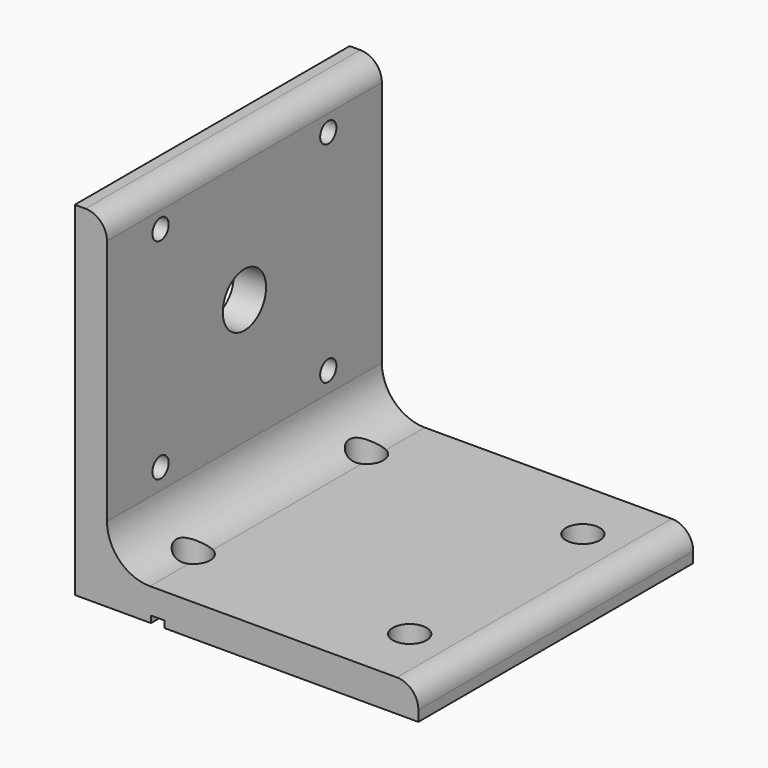
from build123d import *

# Parameters (mm, degrees)
F1_DEPTH = 25.4
F2_R     = 3.175
F3_R     = 6.35
F4_R     = 2.5
F5_DEPTH = 50.801
F6_R     = 1.5
F6_R_2   = 4
F7_DEPTH = 50.801
F9_DEPTH = 1


with BuildPart() as f1:
    # F0 (on Front) → F1 (new body, symmetric)
    with BuildSketch(Plane.XZ):
        Polygon((4.76258, 50.8), (0, 50.8), (0, 0), (50.8, 0), (50.8, 4.76258), (4.76258, 4.76258), align=None)
    extrude(amount=F1_DEPTH, both=True)

    # F2
    f2_edges = [f1.edges().sort_by_distance(p)[0] for p in [
        (4.76258, 0, 50.8),
        (50.8, 0, 4.76258),
    ]]
    fillet(f2_edges, radius=F2_R)

    # F3
    f3_edges = [f1.edges().sort_by_distance(p)[0] for p in [
        (4.76258, 0, 4.76258),
    ]]
    fillet(f3_edges, radius=F3_R)

    # F4 (on face) → F5 (cut, through all)
    with BuildSketch(Plane(origin=(0, 0, 0), x_dir=(1, 0, 0), z_dir=(0, 0, -1))):
        with Locations((10, 16)):
            Circle(F4_R)
        with Locations((42, 16)):
            Circle(F4_R)
        with Locations((42, -16)):
            Circle(F4_R)
        with Locations((10, -16)):
            Circle(F4_R)
    extrude(amount=-F5_DEPTH, mode=Mode.SUBTRACT)

    # F6 (on face) → F7 (cut, through all)
    with BuildSketch(Plane(origin=(0, 0, 0), x_dir=(0, -1, 0), z_dir=(-1, 0, 0))):
        with Locations((15.5, 45.15)):
            Circle(F6_R)
        with Locations((15.5, 14.15)):
            Circle(F6_R)
        with Locations((-15.5, 14.15)):
            Circle(F6_R)
        with Locations((-15.5, 45.15)):
            Circle(F6_R)
        with Locations((0, 29.65)):
            Circle(F6_R_2)
    extrude(amount=-F7_DEPTH, mode=Mode.SUBTRACT)

    # F8 (on face) → F9 (cut)
    with BuildSketch(Plane(origin=(0, 0, 0), x_dir=(1, 0, 0), z_dir=(0, 0, -1))):
        with BuildLine():
            Line((13.263, -25.4), (13.263, 25.4))
            Line((13.263, 25.4), (11.263, 25.4))
            Line((11.263, 25.4), (11.263, 18.157506))
            ThreePointArc((11.263, 18.157506), (12.168813, 17.243483), (12.5, 16))
            ThreePointArc((12.5, 16), (12.168813, 14.756517), (11.263, 13.842494))
            Line((11.263, 13.842494), (11.263, -13.842494))
            ThreePointArc((11.263, -13.842494), (12.168813, -14.756517), (12.5, -16))
            ThreePointArc((12.5, -16), (12.168813, -17.243483), (11.263, -18.157506))
            Line((11.263, -18.157506), (11.263, -25.4))
            Line((11.263, -25.4), (13.263, -25.4))
        make_face()
    extrude(amount=-F9_DEPTH, mode=Mode.SUBTRACT)


solid = f1.part
